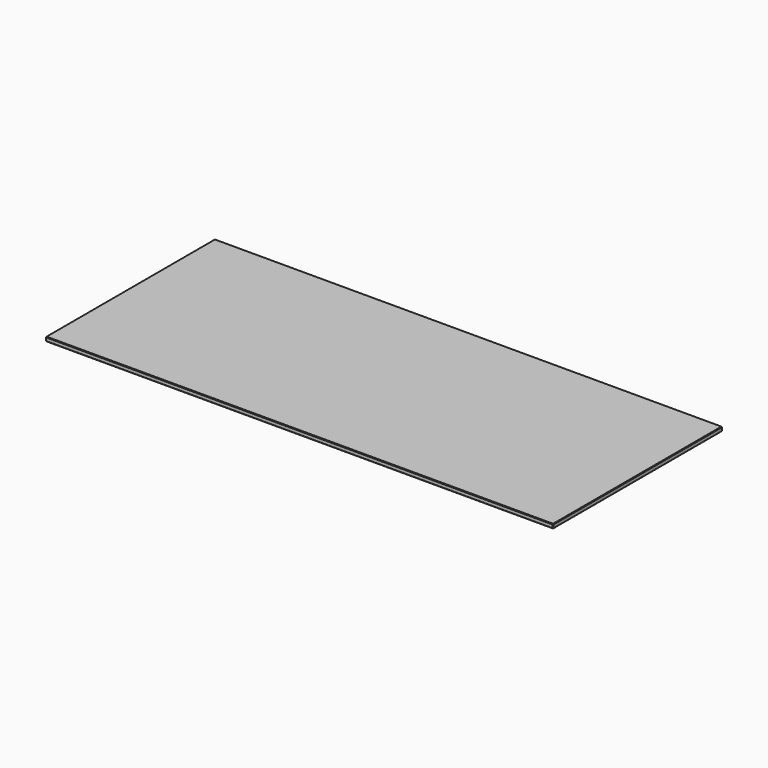
from build123d import *

# Parameters (mm, degrees)
F0_W     = 960
F0_H     = 400
F1_DEPTH = 4
F2_SIZE  = 1
F3_SIZE  = 1
F4_SIZE  = 1
F5_SIZE  = 1
F6_SIZE  = 1
F7_SIZE  = 1
F8_SIZE  = 1
F9_SIZE  = 1
F10_SIZE = 1


with BuildPart() as f1:
    # F0 (on Top) → F1 (new body, symmetric)
    with BuildSketch(Plane.XY):
        Rectangle(F0_W, F0_H)
    extrude(amount=F1_DEPTH, both=True)

    # F2
    f2_edges = [f1.edges().sort_by_distance(p)[0] for p in [
        (0, -200, 4),
    ]]
    chamfer(f2_edges, length=F2_SIZE)

    # F3
    f3_edges = [f1.edges().sort_by_distance(p)[0] for p in [
        (480, 0.5, 4),
    ]]
    chamfer(f3_edges, length=F3_SIZE)

    # F4
    f4_edges = [f1.edges().sort_by_distance(p)[0] for p in [
        (-0.5, 200, 4),
    ]]
    chamfer(f4_edges, length=F4_SIZE)

    # F5
    f5_edges = [f1.edges().sort_by_distance(p)[0] for p in [
        (0, -200, -4),
        (-480, 0, -4),
        (0, 200, -4),
        (480, 0, -4),
    ]]
    chamfer(f5_edges, length=F5_SIZE)

    # F6
    f6_edges = [f1.edges().sort_by_distance(p)[0] for p in [
        (-480, 0, 4),
    ]]
    chamfer(f6_edges, length=F6_SIZE)

    # F7
    f7_edges = [f1.edges().sort_by_distance(p)[0] for p in [
        (-480, 200, 0),
    ]]
    chamfer(f7_edges, length=F7_SIZE)

    # F8
    f8_edges = [f1.edges().sort_by_distance(p)[0] for p in [
        (-480, -200, 0),
    ]]
    chamfer(f8_edges, length=F8_SIZE)

    # F9
    f9_edges = [f1.edges().sort_by_distance(p)[0] for p in [
        (480, -200, 0),
    ]]
    chamfer(f9_edges, length=F9_SIZE)

    # F10
    f10_edges = [f1.edges().sort_by_distance(p)[0] for p in [
        (480, 200, 0),
    ]]
    chamfer(f10_edges, length=F10_SIZE)


solid = f1.part
